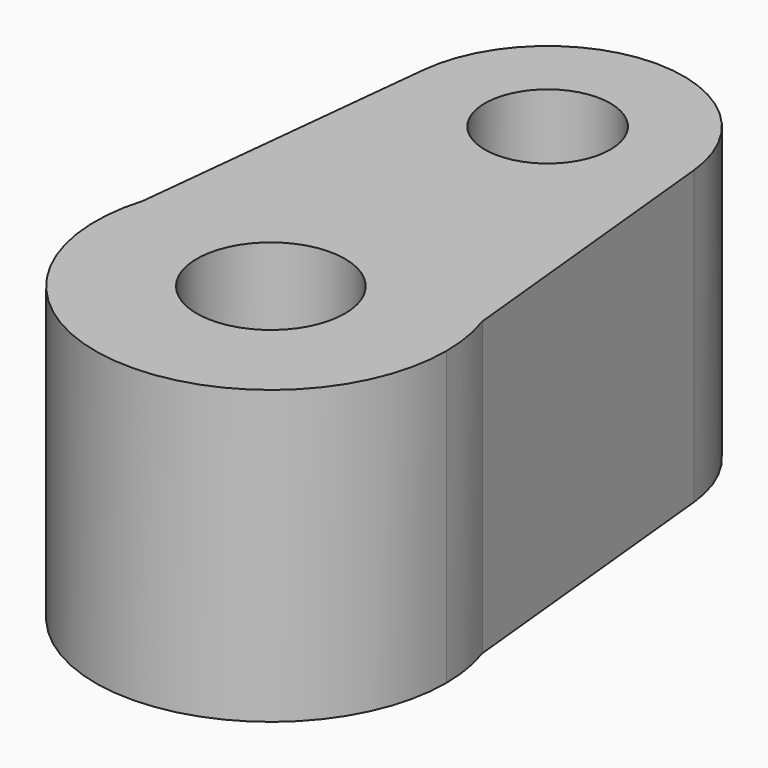
from build123d import *

# Parameters (mm, degrees)
F0_R     = 6.441867
F0_R_2   = 5.453784
F1_DEPTH = 12.7


with BuildPart() as f1:
    # F0 (on Top) → F1 (new body, symmetric)
    with BuildSketch(Plane.XY):
        with BuildLine():
            ThreePointArc((-14.606098, 4.398605), (-2.223036, -15.091187), (15.254043, 0))
            ThreePointArc((15.254043, 0), (15.048434, 2.496088), (14.43715, 4.924887))
            ThreePointArc((14.43715, 4.924887), (-0.276368, 15.251539), (-14.606098, 4.398605))
        make_face()
        Circle(F0_R, mode=Mode.SUBTRACT)
        with BuildLine():
            ThreePointArc((-14.606098, 4.398605), (-0.276368, 15.251539), (14.43715, 4.924887))
            Line((14.43715, 4.924887), (11.771594, 31.255869))
            ThreePointArc((11.771594, 31.255869), (11.816708, 30.660793), (11.831758, 30.064199))
            ThreePointArc((11.831758, 30.064199), (-0.621746, 18.248788), (-11.766414, 31.305974))
            Line((-11.766414, 31.305974), (-14.606098, 4.398605))
        make_face()
        with BuildLine():
            ThreePointArc((11.831758, 30.064199), (11.816708, 30.660793), (11.771594, 31.255869))
            ThreePointArc((11.771594, 31.255869), (0.025186, 41.89593), (-11.766414, 31.305974))
            ThreePointArc((-11.766414, 31.305974), (-0.621746, 18.248788), (11.831758, 30.064199))
        make_face()
        with Locations((0, 30.064199)):
            Circle(F0_R_2, mode=Mode.SUBTRACT)
    extrude(amount=F1_DEPTH, both=True)


solid = f1.part
